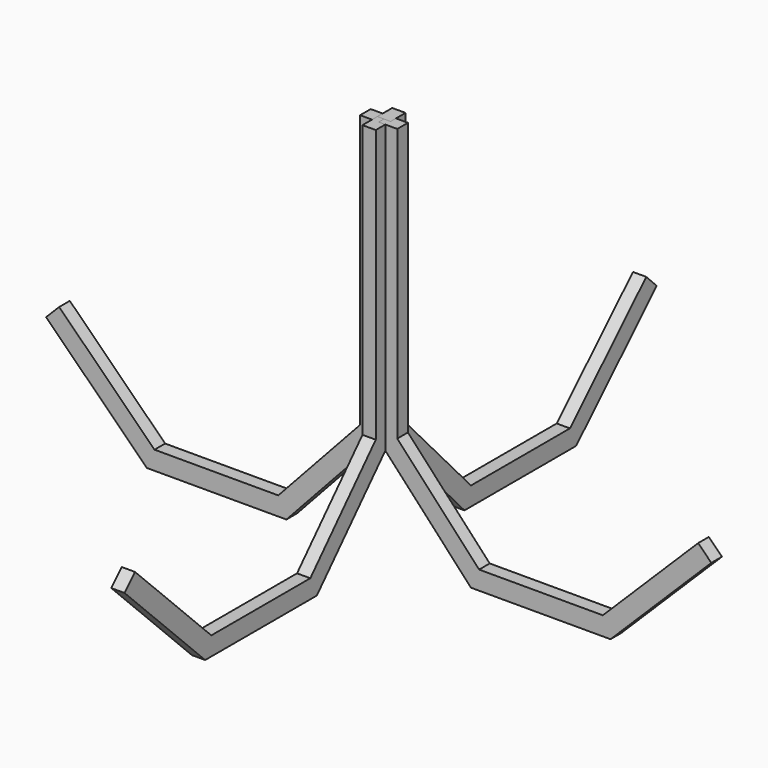
from build123d import *

# Parameters (mm, degrees)
F1_DEPTH = 1.25
F2_COUNT = 4


with BuildPart() as f1:
    # F0 (on Front) → F1 (new body, symmetric)
    with BuildSketch(Plane.XZ):
        Polygon((-17.367143, -18.826567), (0, 0), (0, 52.685201), (-3.5, 52.685201), (-3.5, 1.367794), (-18.900224, -15.326567), (-42.194935, -15.326567), (-60.143986, 2.484411), (-62.609285, 0), (-43.636773, -18.826567), align=None)
    extrude(amount=F1_DEPTH, both=True)


with BuildPart() as f2_1:
    # F2: instance of F1
    add(f1.part.rotate(Axis((0, 0, 26.342601), (0, 0, 1)), 1 * 360 / F2_COUNT))


with BuildPart() as f2_2:
    # F2: instance of F1
    add(f1.part.rotate(Axis((0, 0, 26.342601), (0, 0, 1)), 2 * 360 / F2_COUNT))


with BuildPart() as f2_3:
    # F2: instance of F1
    add(f1.part.rotate(Axis((0, 0, 26.342601), (0, 0, 1)), 3 * 360 / F2_COUNT))


solid = Compound([f1.part, f2_1.part, f2_2.part, f2_3.part])
